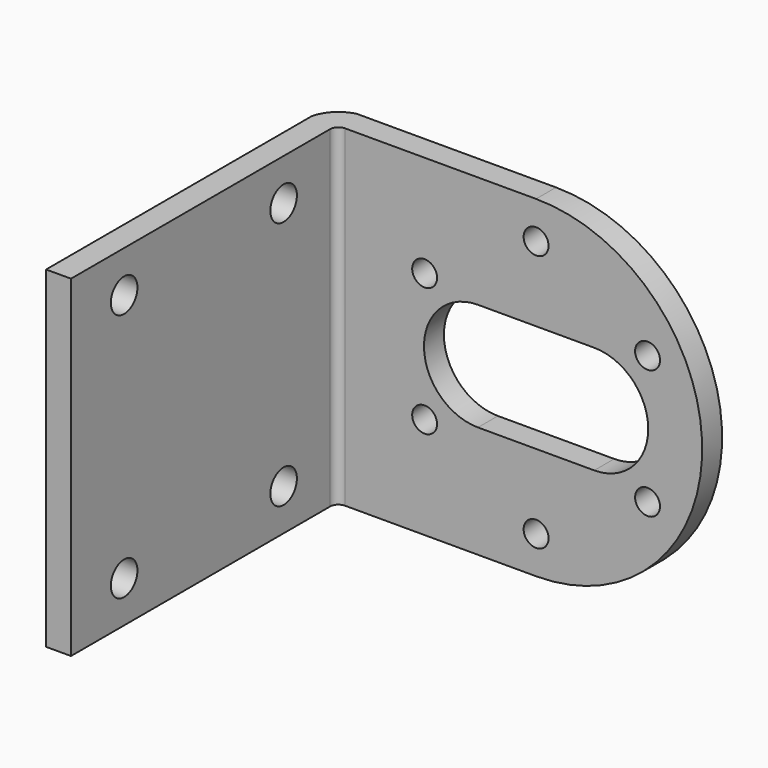
from build123d import *

# Parameters (mm, degrees)
SKETCH018_W             = 40
SKETCH018_H             = 43
PAD013_DEPTH            = 3
SKETCH019_R             = 1.5
PAD014_DEPTH            = 3
SKETCH020_R             = 2
POCKET003_DEPTH         = 3.001
FILLET_R                = 1
POCKET004_DEPTH         = 40.001
BODY001_PLACEMENT_ANGLE = 90


with BuildPart() as part:
    # Sketch018 → Pad013 (new body)
    with BuildSketch(Plane.XY):
        Rectangle(SKETCH018_W, SKETCH018_H)
    extrude(amount=PAD013_DEPTH)

    # Sketch019 (on Face1 of Pad013) → Pad014 (join)
    with BuildSketch(Plane(origin=(0, 21.5, 0), x_dir=(-1, 0, 0), z_dir=(0, 1, 0))):
        with BuildLine():
            Line((-20, 3), (20, 3))
            Line((20, 3), (20, 27))
            ThreePointArc((20, 27), (0, 47), (-20, 27))
            Line((-20, 27), (-20, 3))
        make_face()
        with Locations((-7.75, 40.42)):
            Circle(SKETCH019_R, mode=Mode.SUBTRACT)
        with Locations((7.75, 40.42)):
            Circle(SKETCH019_R, mode=Mode.SUBTRACT)
        with Locations((15.5, 27)):
            Circle(SKETCH019_R, mode=Mode.SUBTRACT)
        with Locations((-15.5, 27)):
            Circle(SKETCH019_R, mode=Mode.SUBTRACT)
        with Locations((-7.75, 13.58)):
            Circle(SKETCH019_R, mode=Mode.SUBTRACT)
        with Locations((7.75, 13.58)):
            Circle(SKETCH019_R, mode=Mode.SUBTRACT)
        with BuildLine():
            ThreePointArc((6.5, 34), (0, 40.5), (-6.5, 34))
            Line((-6.5, 34), (-6.5, 20))
            ThreePointArc((-6.5, 20), (0, 13.5), (6.5, 20))
            Line((6.5, 20), (6.5, 34))
        make_face(mode=Mode.SUBTRACT)
    extrude(amount=-PAD014_DEPTH)

    # Sketch020 (on Face7 of Pad014) → Pocket003 (cut, through all)
    with BuildSketch(Plane.XY.offset(3)):
        with Locations((15, 10.5)):
            Circle(SKETCH020_R)
        with Locations((15, -13.5)):
            Circle(SKETCH020_R)
        with Locations((-15, 10.5)):
            Circle(SKETCH020_R)
        with Locations((-15, -13.5)):
            Circle(SKETCH020_R)
    extrude(amount=-POCKET003_DEPTH, mode=Mode.SUBTRACT)

    # Fillet
    fillet_edges = [part.edges().sort_by_distance(p)[0] for p in [
        (0, 18.5, 3),
    ]]
    fillet(fillet_edges, radius=FILLET_R)

    # Sketch021 (on Face1 of Fillet) → Pocket004 (cut, through all)
    with BuildSketch(Plane(origin=(-20, 0, 0), x_dir=(0, -1, 0), z_dir=(-1, 0, 0))):
        with BuildLine():
            ThreePointArc((-21.5, 3), (-20.415476, 1.084524), (-18.5, 0))
            Line((-21.5, 0), (-18.5, 0))
            Line((-21.5, 3), (-21.5, 0))
        make_face()
    extrude(amount=-POCKET004_DEPTH, mode=Mode.SUBTRACT)


with BuildPart() as part_1:
    # Body001 placement: moved
    add(part.part.moved(Location((445.5, -85, 0))).rotate(Axis((445.5, -85, 0), (0, 1, 0)), BODY001_PLACEMENT_ANGLE))


solid = part_1.part
